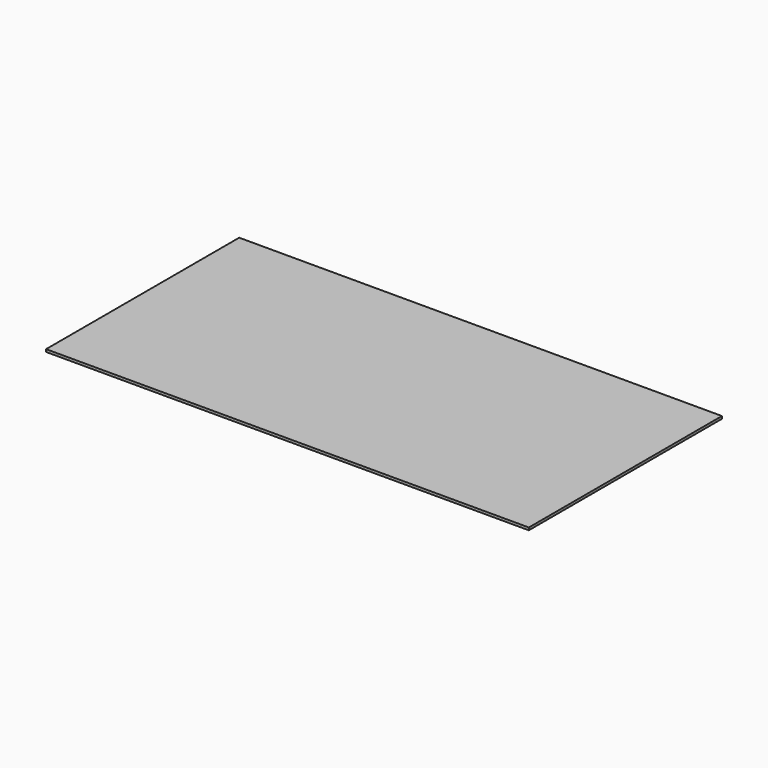
from build123d import *

# Parameters (mm, degrees)
SKETCH_W  = 2438.4
SKETCH_H  = 1219.2
PAD_DEPTH = 12.7


with BuildPart() as part:
    # Sketch → Pad (new body)
    with BuildSketch(Plane.XY):
        with Locations((1219.2, 609.6)):
            Rectangle(SKETCH_W, SKETCH_H)
    extrude(amount=PAD_DEPTH)


solid = part.part
